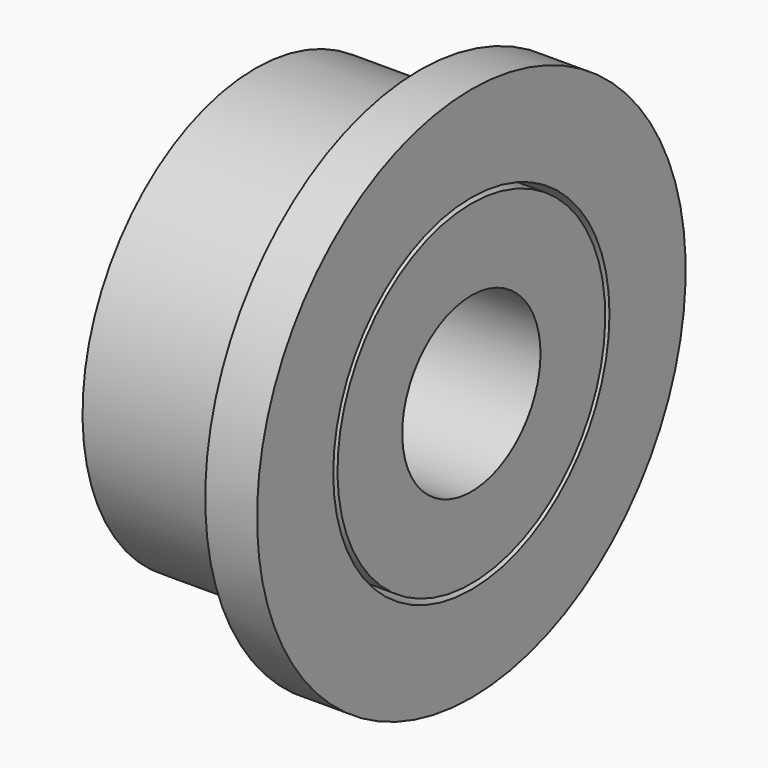
from build123d import *

# Parameters (mm, degrees)
F0_W = 2.5
F0_H = 0.936731


with BuildPart() as f1:
    # F0 (on Front) → F1 (revolve)
    with BuildSketch(Plane.XZ):
        Polygon((0.65, 2.5), (-1.25, 2.5), (-1.25, 1.998061), (1.25, 1.998061), (1.25, 3.1), (0.65, 3.1), align=None)
    revolve(axis=Axis((0, 0, 0), (1, 0, 0)))


with BuildPart() as f2:
    # F0 (on Front) → F2 (revolve)
    with BuildSketch(Plane.XZ):
        with Locations((0, 1.468365)):
            Rectangle(F0_W, F0_H)
    revolve(axis=Axis((0, 0, 0), (1, 0, 0)))


solid = Compound([f1.part, f2.part])
